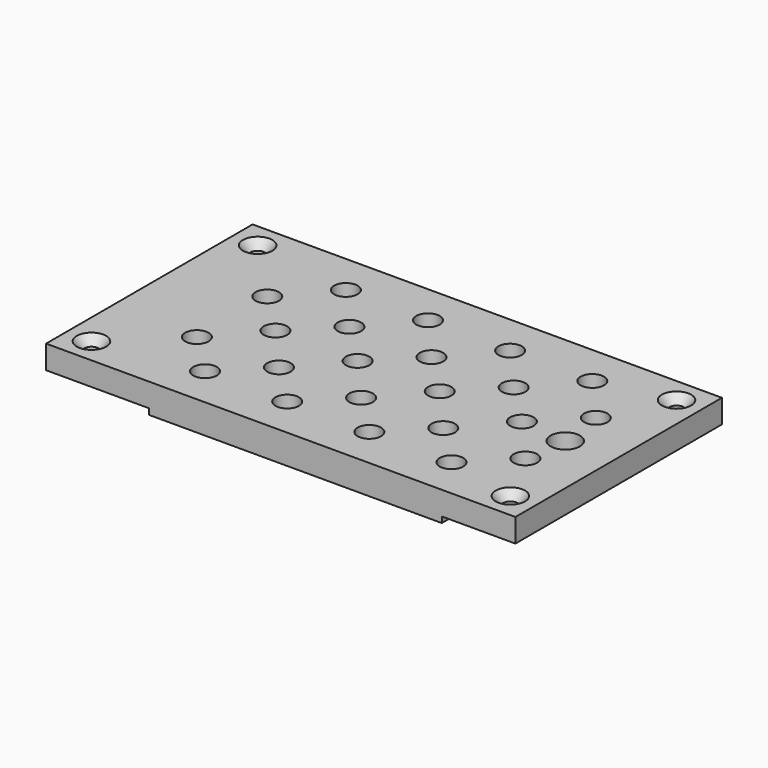
from build123d import *

# Parameters (mm, degrees)
F0_W           = 80
F0_H           = 44
F1_DEPTH       = 4
F3_D           = 2.5
F3_DEPTH       = 10
F3_CSINK_D     = 5
F3_CSINK_ANGLE = 81
F5_D           = 4
F5_DEPTH       = 10
F7_D           = 5
F7_DEPTH       = 10
F8_W           = 49.9
F8_H           = 3
F8_W_2         = 2
F8_H_2         = 26
F9_DEPTH       = 1


with BuildPart() as f1:
    # F0 (on Top) → F1 (new body)
    with BuildSketch(Plane.XY):
        Rectangle(F0_W, F0_H)
    extrude(amount=F1_DEPTH)

    # F3
    with Locations(Plane.XY.offset(4)):
        with Locations((-35.7, -17.7), (-35.7, 17.7), (35.7, 17.7), (35.7, -17.7)):
            CounterSinkHole(F3_D / 2, F3_CSINK_D / 2, depth=F3_DEPTH, counter_sink_angle=F3_CSINK_ANGLE)

    # F5
    with Locations(Plane.XY.offset(4)):
        with Locations((-18.5, 15), (-4.5, 15), (9.5, 15), (23.5, 15), (-25.5, 7), (-11.5, 7), (2.5, 7), (16.5, 7), (30.5, 7), (-18.5, 0), (-4.5, 0), (9.5, 0), (23.5, 0), (-25.5, -8), (-11.5, -8), (2.5, -8), (16.5, -8), (30.5, -8), (-18.5, -15), (-4.5, -15), (9.5, -15), (23.5, -15)):
            Hole(F5_D / 2, depth=F5_DEPTH)

    # F7
    with Locations(Plane.XY.offset(4)):
        with Locations((31.5, -0.75)):
            Hole(F7_D / 2, depth=F7_DEPTH)

    # F8 (on face) → F9 (join)
    with BuildSketch(Plane(origin=(0, 0, 0), x_dir=(1, 0, 0), z_dir=(0, 0, -1))):
        with Locations((2.5, 20.5)):
            Rectangle(F8_W, F8_H)
        with Locations((2.5, -20.5)):
            Rectangle(F8_W, F8_H)
        with Locations((35.93, 0)):
            Rectangle(F8_W_2, F8_H_2)
        with Locations((-35.93, 0)):
            Rectangle(F8_W_2, F8_H_2)
    extrude(amount=F9_DEPTH)


solid = f1.part
